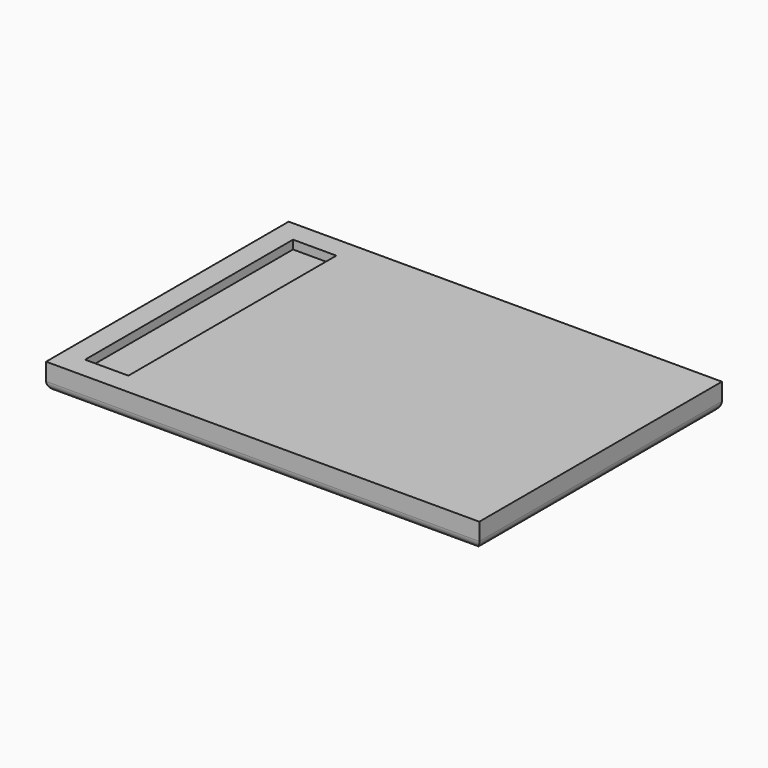
from build123d import *

# Parameters (mm, degrees)
F0_W     = 100
F0_H     = 70
F1_DEPTH = 6
F2_R     = 2
F3_W     = 10
F3_H     = 60
F4_DEPTH = 2


with BuildPart() as f1:
    # F0 (on Top) → F1 (new body)
    with BuildSketch(Plane.XY):
        Rectangle(F0_W, F0_H)
    extrude(amount=F1_DEPTH)

    # F2
    f2_edges = [f1.edges().sort_by_distance(p)[0] for p in [
        (0, -35, 0),
        (50, 0, 0),
        (0, 35, 0),
        (-50, 0, 0),
    ]]
    fillet(f2_edges, radius=F2_R)

    # F3 (on face) → F4 (cut)
    with BuildSketch(Plane.XY.offset(6)):
        with Locations((-40, 0)):
            Rectangle(F3_W, F3_H)
    extrude(amount=-F4_DEPTH, mode=Mode.SUBTRACT)


solid = f1.part
